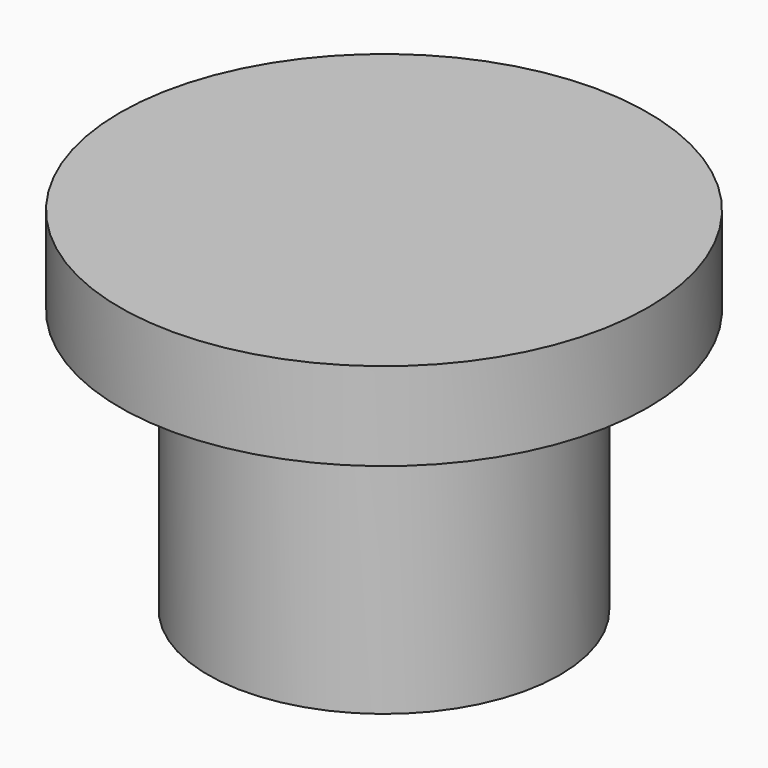
from build123d import *

# Parameters (mm, degrees)
F0_R     = 8
F0_R_2   = 4
F1_DEPTH = 12
F3_R     = 12
F4_DEPTH = 4


with BuildPart() as f1:
    # F0 (on Top) → F1 (new body)
    with BuildSketch(Plane.XY):
        Circle(F0_R)
        Circle(F0_R_2, mode=Mode.SUBTRACT)
    extrude(amount=F1_DEPTH)

    # F3 (on offset) → F4 (join)
    with BuildSketch(Plane.XY.offset(12)):
        Circle(F3_R)
    extrude(amount=F4_DEPTH)


solid = f1.part
